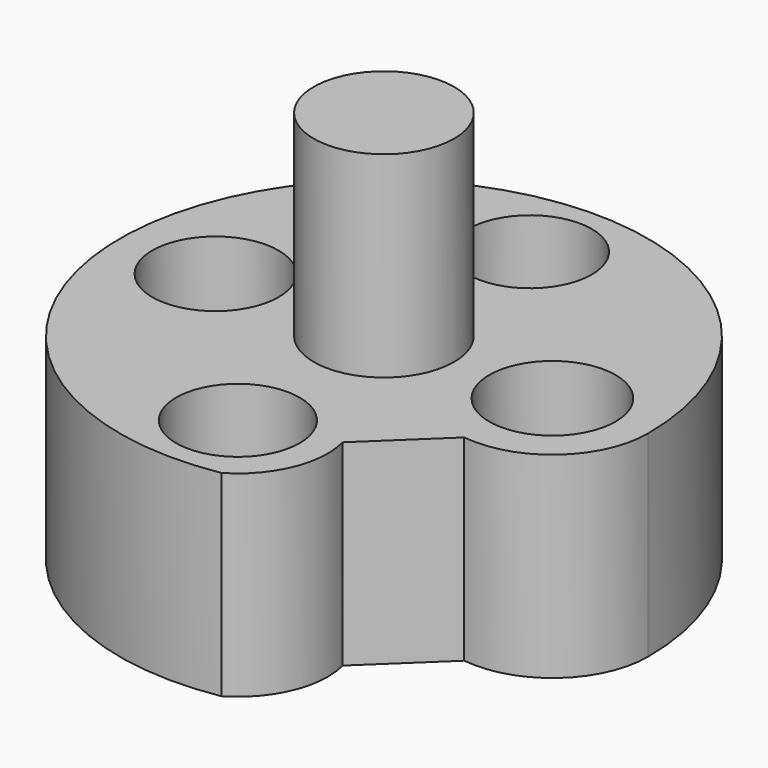
from build123d import *

# Parameters (mm, degrees)
F0_R      = 9.4
F1_DEPTH  = 7
F2_R      = 2.5
F3_DEPTH  = 7
F4_R      = 1.25
F5_DEPTH  = 2.42
F6_R      = 2.25
F7_DEPTH  = 4.58
F8_R      = 1.45
F9_DEPTH  = 1.705
F10_R     = 2.2
F11_DEPTH = 5.295
F12_R     = 2.75
F13_DEPTH = 3
F15_DEPTH = 7


with BuildPart() as f1:
    # F0 (on Top) → F1 (new body)
    with BuildSketch(Plane.XY):
        Circle(F0_R)
    extrude(amount=F1_DEPTH)

    # F2 (on face) → F3 (join)
    with BuildSketch(Plane.XY.offset(7)):
        Circle(F2_R)
    extrude(amount=F3_DEPTH)

    # F4 (on face) → F5 (cut)
    with BuildSketch(Plane(origin=(0, 0, 0), x_dir=(1, 0, 0), z_dir=(0, 0, -1))):
        with Locations((6, 0)):
            Circle(F4_R)
        with Locations((-6, 0)):
            Circle(F4_R)
    extrude(amount=-F5_DEPTH, mode=Mode.SUBTRACT)

    # F6 (on face) → F7 (cut, through all)
    with BuildSketch(Plane(origin=(0, 0, 2.42), x_dir=(1, 0, 0), z_dir=(0, 0, -1))):
        with Locations((-6, 0)):
            Circle(F6_R)
        with Locations((6, 0)):
            Circle(F6_R)
    extrude(amount=-F7_DEPTH, mode=Mode.SUBTRACT)

    # F8 (on face) → F9 (cut)
    with BuildSketch(Plane(origin=(0, 0, 0), x_dir=(1, 0, 0), z_dir=(0, 0, -1))):
        with Locations((0, -6.5)):
            Circle(F8_R)
        with Locations((0, 6.5)):
            Circle(F8_R)
    extrude(amount=-F9_DEPTH, mode=Mode.SUBTRACT)

    # F10 (on face) → F11 (cut, through all)
    with BuildSketch(Plane(origin=(0, 0, 1.705), x_dir=(1, 0, 0), z_dir=(0, 0, -1))):
        with Locations((0, -6.5)):
            Circle(F10_R)
        with Locations((0, 6.5)):
            Circle(F10_R)
    extrude(amount=-F11_DEPTH, mode=Mode.SUBTRACT)

    # F12 (on face) → F13 (cut)
    with BuildSketch(Plane(origin=(0, 0, 0), x_dir=(1, 0, 0), z_dir=(0, 0, -1))):
        Circle(F12_R)
    extrude(amount=-F13_DEPTH, mode=Mode.SUBTRACT)

    # F14 (on face) → F15 (cut, through all)
    with BuildSketch(Plane.XY.offset(7)):
        with BuildLine():
            ThreePointArc((3.101538, -5.712308), (2.95297, -7.732869), (1.620693, -9.259231))
            ThreePointArc((1.620693, -9.259231), (7.197031, -6.046713), (9.4, 0))
            ThreePointArc((9.4, 0), (8.242264, -2.555827), (5.5575, -3.371082))
            Line((5.5575, -3.371082), (3.101538, -5.712308))
        make_face()
    extrude(amount=-F15_DEPTH, mode=Mode.SUBTRACT)


solid = f1.part
